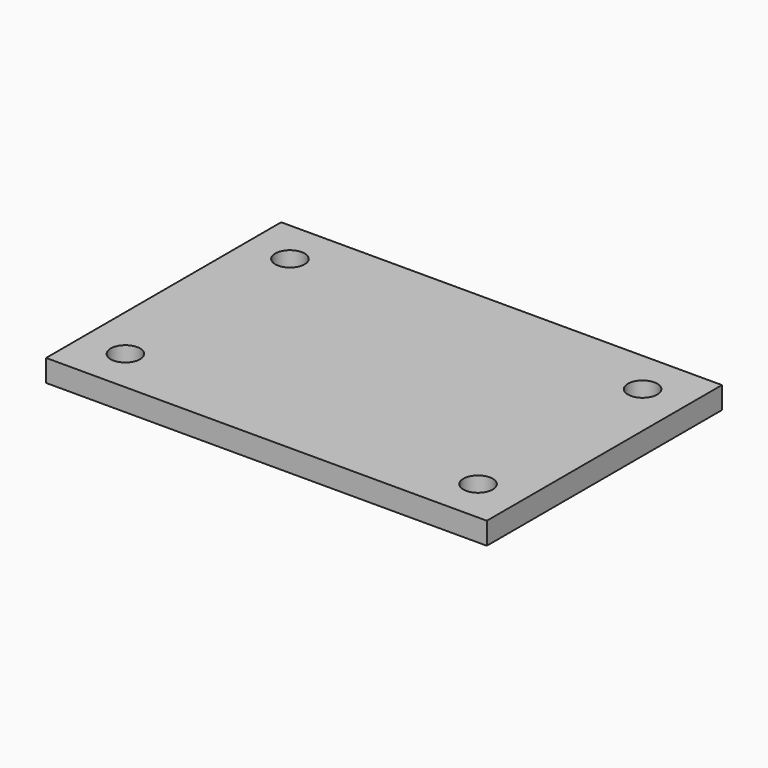
from build123d import *

# Parameters (mm, degrees)
SKETCH_W  = 60
SKETCH_H  = 40
SKETCH_R  = 2
PAD_DEPTH = 3


with BuildPart() as part:
    # Sketch → Pad (new body)
    with BuildSketch(Plane.XY):
        Rectangle(SKETCH_W, SKETCH_H)
        with Locations((-24, 14)):
            Circle(SKETCH_R, mode=Mode.SUBTRACT)
        with Locations((-24, -14)):
            Circle(SKETCH_R, mode=Mode.SUBTRACT)
        with Locations((24, -14)):
            Circle(SKETCH_R, mode=Mode.SUBTRACT)
        with Locations((24, 14)):
            Circle(SKETCH_R, mode=Mode.SUBTRACT)
    extrude(amount=PAD_DEPTH)


solid = part.part
